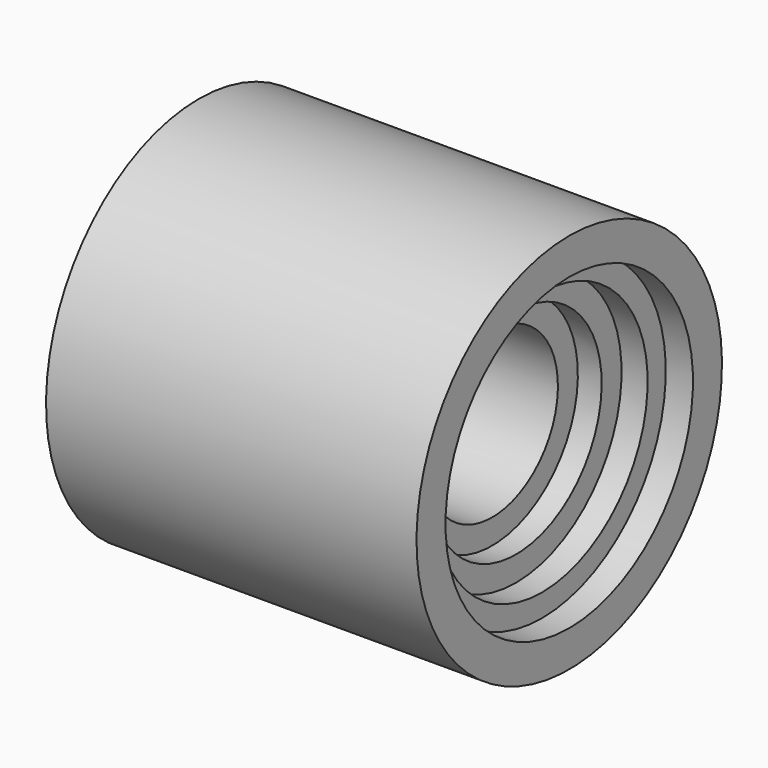
from build123d import *


with BuildPart() as f1:
    # F0 (on Front) → F1 (revolve)
    with BuildSketch(Plane.XZ):
        Polygon((-42.576, 32.322101), (0, 32.322101), (0, 75.121), (-72.891891, 75.121), (-72.891891, 60.854718), (-62.192168, 60.854718), (-62.192168, 51.938277), (-51.938262, 51.938277), (-51.938262, 42.130191), (-42.576, 42.130191), align=None)
        Polygon((0, 75.121), (0, 32.322101), (42.576, 32.322101), (42.576, 42.130191), (51.938262, 42.130191), (51.938262, 51.938277), (62.192168, 51.938277), (62.192168, 60.854718), (72.891891, 60.854718), (72.891891, 75.121), align=None)
    revolve(axis=Axis((0.891461, 0, 0), (1, 0, 0)))


solid = f1.part
